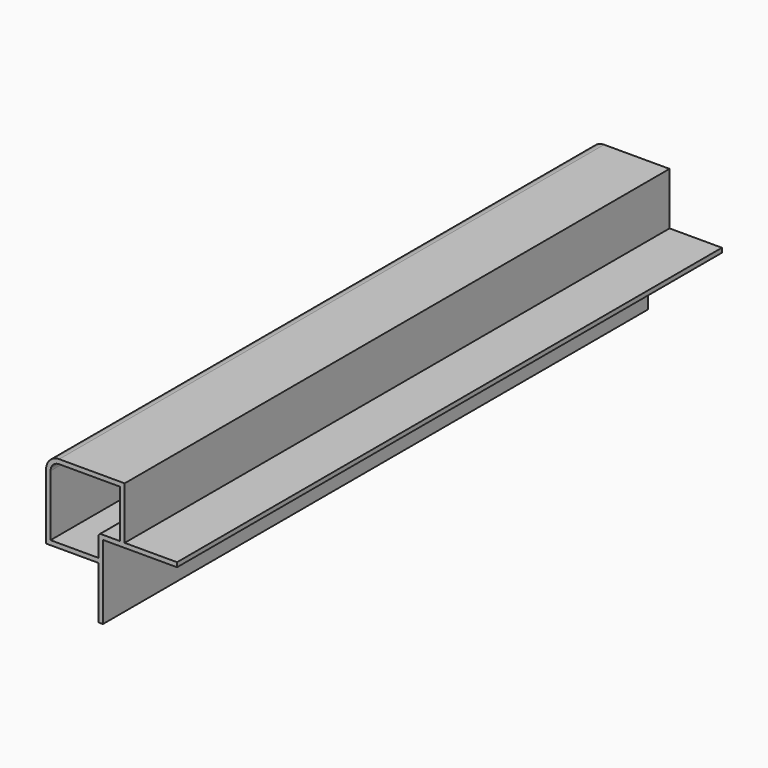
from build123d import *

# Parameters (mm, degrees)
F1_DEPTH = 260


with BuildPart() as f1:
    # F0 (on Front) → F1 (new body)
    with BuildSketch(Plane.XZ):
        with BuildLine():
            Line((10.950894, 19.049106), (-14.049106, 19.049106))
            ThreePointArc((-14.049106, 19.049106), (-17.58464, 17.58464), (-19.049106, 14.049106))
            Line((-19.049106, 14.049106), (-19.049106, -10.950894))
            Line((-19.049106, -10.950894), (0.950894, -10.950894))
            Line((0.950894, -10.950894), (0.950894, -30.950894))
            Line((0.950894, -30.950894), (2.650894, -30.950894))
            Line((2.650894, -30.950894), (2.650894, -2.650894))
            Line((2.650894, -2.650894), (30.950894, -2.650894))
            Line((30.950894, -2.650894), (30.950894, -0.950894))
            Line((30.950894, -0.950894), (10.950894, -0.950894))
            Line((10.950894, -0.950894), (10.950894, 19.049106))
        make_face()
        with BuildLine():
            ThreePointArc((1.950894, -0.950894), (1.243787, -1.243787), (0.950894, -1.950894))
            Line((0.950894, -1.950894), (0.950894, -9.250894))
            Line((0.950894, -9.250894), (-17.349106, -9.250894))
            Line((-17.349106, -9.250894), (-17.349106, 14.049106))
            ThreePointArc((-17.349106, 14.049106), (-16.382558, 16.382558), (-14.049106, 17.349106))
            Line((-14.049106, 17.349106), (9.250894, 17.349106))
            Line((9.250894, 17.349106), (9.250894, -0.950894))
            Line((9.250894, -0.950894), (1.950894, -0.950894))
        make_face(mode=Mode.SUBTRACT)
    extrude(amount=-F1_DEPTH)


solid = f1.part
